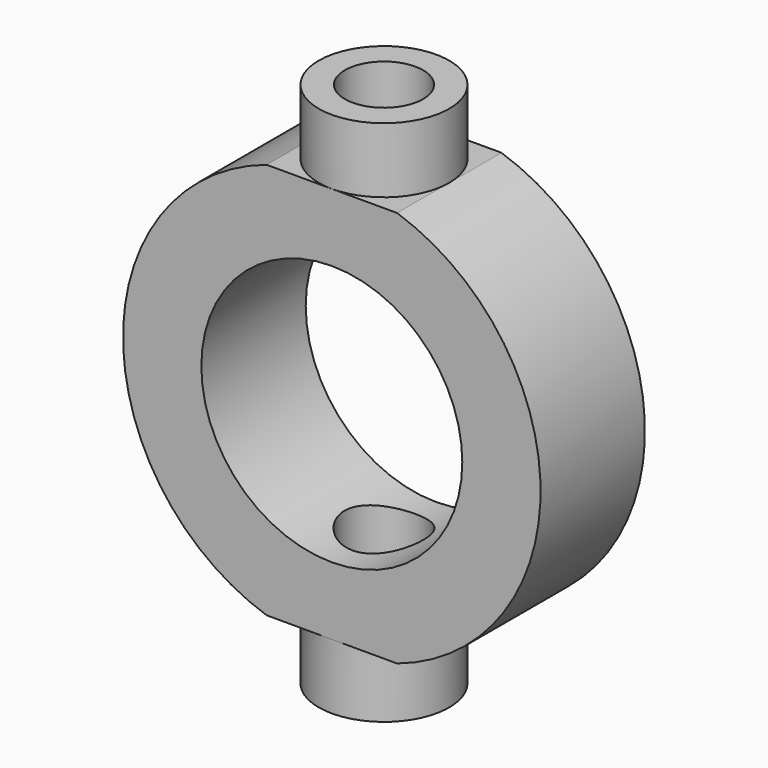
from build123d import *

# Parameters (mm, degrees)
F0_R      = 635
F1_DEPTH  = 635
F2_R      = 190.5
F3_DEPTH  = 317.5
F4_DEPTH  = 25.4
F4_FACE_R = 190.5
F5_DEPTH  = 25.4
F5_TAPER  = -3
F6_DEPTH  = 1879.4338875035
F8_R      = 191.8311575938
F9_DEPTH  = 317.5
F10_R     = 635
F11_DEPTH = 635.001


with BuildPart() as f1:
    # F0 (on Front) → F1 (new body)
    with BuildSketch(Plane.XZ):
        with BuildLine():
            Line((317.5, 965.1164437517), (-317.5, 965.1164437517))
            ThreePointArc((-317.5, 965.1164437517), (-1016, 0), (-317.5, -965.1164437517))
            Line((-317.5, -965.1164437517), (317.5, -965.1164437517))
            ThreePointArc((317.5, -965.1164437517), (1016, 0), (317.5, 965.1164437517))
        make_face()
        Circle(F0_R, mode=Mode.SUBTRACT)
        Circle(F0_R)
    extrude(amount=F1_DEPTH)

    # F2 (on face) → F3 (join)
    with BuildSketch(Plane.XY.offset(965.1164437517)):
        with BuildLine():
            ThreePointArc((9.495e-07, -635), (224.5064033624, -542.006402691), (317.5, -317.5))
            ThreePointArc((317.5, -317.5), (224.5064033905, -92.993597337), (1.0289e-06, 0))
            ThreePointArc((1.0289e-06, 0), (-224.506402663, -92.9935966095), (-317.5, -317.5))
            ThreePointArc((-317.5, -317.5), (-224.506402691, -542.0064033624), (9.495e-07, -635))
        make_face()
        with Locations((0, -317.5)):
            Circle(F2_R, mode=Mode.SUBTRACT)
    extrude(amount=F3_DEPTH)

    # F4 (cut): a face of the model
    f4_faces = [f1.faces().sort_by_distance(p)[0] for p in [
        (0, -317.5, 965.1164437517),
    ]]
    extrude(f4_faces, amount=-F4_DEPTH, mode=Mode.SUBTRACT)

    # F4_face (on face) → F5 (cut)
    with BuildSketch(Plane(origin=(0, -317.5, 939.7164437517), x_dir=(1, 0, 0), z_dir=(0, 0, 1))):
        Circle(F4_FACE_R)
    extrude(amount=-F5_DEPTH, taper=F5_TAPER, mode=Mode.SUBTRACT)

    # F6 (cut, through all): a face of the model
    f6_faces = [f1.faces().sort_by_distance(p)[0] for p in [
        (0, -317.5, 914.3164437517),
    ]]
    extrude(f6_faces, amount=-F6_DEPTH, mode=Mode.SUBTRACT)

    # F8 (on face) → F9 (join)
    with BuildSketch(Plane(origin=(0, 0, -965.1164437517), x_dir=(1, 0, 0), z_dir=(0, 0, -1))):
        with BuildLine():
            ThreePointArc((3.841e-07, 0), (224.5064031625, 92.9935971091), (317.5, 317.5))
            ThreePointArc((317.5, 317.5), (224.5064035631, 542.0064024903), (1.5171e-06, 635))
            ThreePointArc((1.5171e-06, 635), (-224.5064024903, 542.0064035631), (-317.5, 317.5))
            ThreePointArc((-317.5, 317.5), (-224.5064028909, 92.9935968375), (3.841e-07, 0))
        make_face()
        with Locations((0, 317.5)):
            Circle(F8_R, mode=Mode.SUBTRACT)
    extrude(amount=F9_DEPTH)

    # F10 (on face) → F11 (cut, through all)
    with BuildSketch(Plane.XZ.offset(635)):
        Circle(F10_R)
    extrude(amount=-F11_DEPTH, mode=Mode.SUBTRACT)


solid = f1.part
